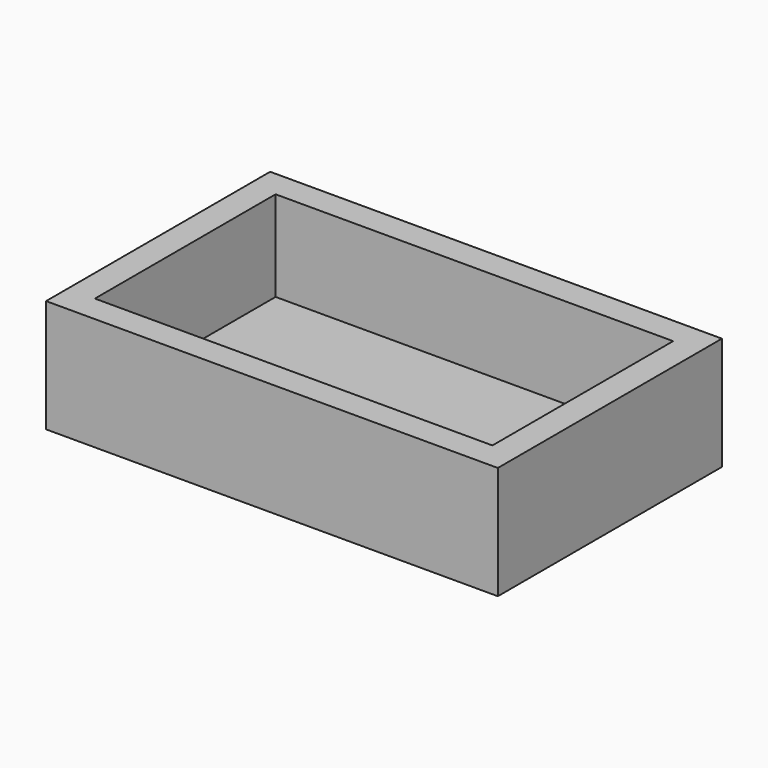
from build123d import *

# Parameters (mm, degrees)
SKETCH_W     = 200
SKETCH_H     = 124
PAD_DEPTH    = 50
SKETCH001_W  = 176
SKETCH001_H  = 100
POCKET_DEPTH = 40


with BuildPart() as part:
    # Sketch → Pad (new body)
    with BuildSketch(Plane.XY):
        Rectangle(SKETCH_W, SKETCH_H)
    extrude(amount=PAD_DEPTH)

    # Sketch001 (on Face6 of Pad) → Pocket (cut)
    with BuildSketch(Plane.XY.offset(50)):
        Rectangle(SKETCH001_W, SKETCH001_H)
    extrude(amount=-POCKET_DEPTH, mode=Mode.SUBTRACT)


solid = part.part
